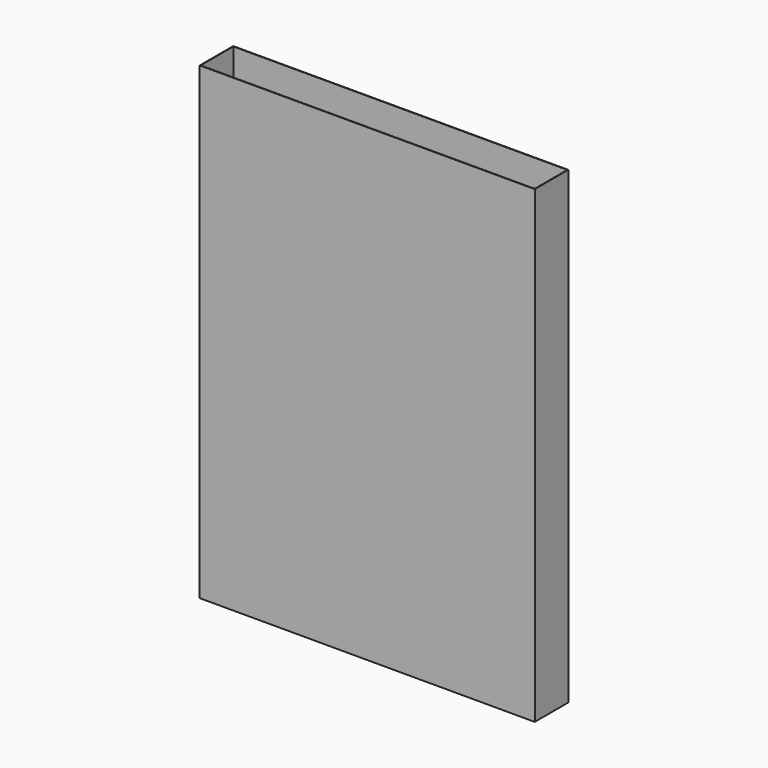
from build123d import *

# Parameters (mm, degrees)
F0_W     = 508
F0_H     = 63.5
F0_W_2   = 506.476
F0_H_2   = 61.976
F1_DEPTH = 711.2
F2_DEPTH = 0.762
F3_R     = 50.8
F3_R_2   = 50.038
F4_DEPTH = 50.8
F5_DEPTH = 25.4


with BuildPart() as f1:
    # F0 (on Top) → F1 (new body)
    with BuildSketch(Plane.XY):
        Rectangle(F0_W, F0_H)
        Rectangle(F0_W_2, F0_H_2, mode=Mode.SUBTRACT)
    extrude(amount=F1_DEPTH)

    # F0 (on Top) → F2 (join)
    with BuildSketch(Plane.XY):
        Rectangle(F0_W_2, F0_H_2)
    extrude(amount=F2_DEPTH)

    # F3 (on face) → F4 (join)
    with BuildSketch(Plane(origin=(0, 31.75, 0), x_dir=(-1, 0, 0), z_dir=(0, 1, 0))):
        with Locations((0, 76.2)):
            Circle(F3_R)
        with Locations((0, 76.2)):
            Circle(F3_R_2, mode=Mode.SUBTRACT)
    extrude(amount=F4_DEPTH)

    # F3 (on face) → F5 (cut)
    with BuildSketch(Plane(origin=(0, 31.75, 0), x_dir=(-1, 0, 0), z_dir=(0, 1, 0))):
        with Locations((0, 76.2)):
            Circle(F3_R_2)
    extrude(amount=-F5_DEPTH, mode=Mode.SUBTRACT)


solid = f1.part
